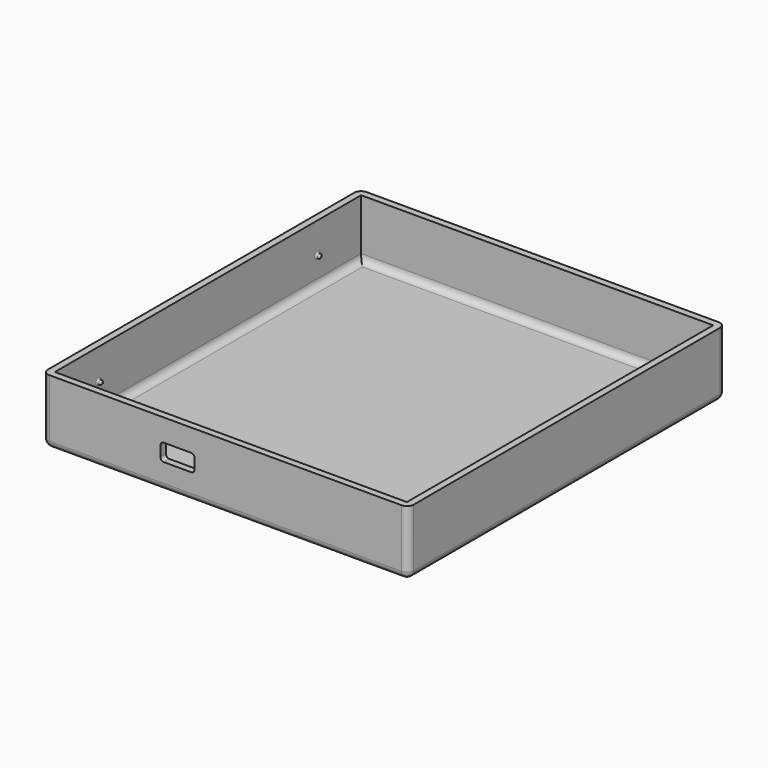
from build123d import *

# Parameters (mm, degrees)
SKETCH_W     = 107
SKETCH_H     = 116
SKETCH_W_2   = 103
SKETCH_H_2   = 112
PAD_DEPTH    = 19
SKETCH001_W  = 103
SKETCH001_H  = 112
PAD001_DEPTH = 2
FILLET_R     = 2
SKETCH002_W  = 10
SKETCH002_H  = 5
POCKET_DEPTH = 5
FILLET001_R  = 1
SKETCH003_W  = 50
SKETCH003_H  = 1
PAD002_DEPTH = 1
FILLET002_R  = 0.35
SKETCH004_R  = 0.629837
PAD003_DEPTH = 1
FILLET003_R  = 0.4
FILLET004_R  = 2
FILLET005_R  = 2


with BuildPart() as part:
    # Sketch (on XY_Plane of Origin) → Pad (new body)
    with BuildSketch(Plane.XY):
        Rectangle(SKETCH_W, SKETCH_H)
        Rectangle(SKETCH_W_2, SKETCH_H_2, mode=Mode.SUBTRACT)
    extrude(amount=PAD_DEPTH)

    # Sketch001 (on XY_Plane of Origin) → Pad001 (join)
    with BuildSketch(Plane.XY):
        Rectangle(SKETCH001_W, SKETCH001_H)
    extrude(amount=PAD001_DEPTH)

    # Fillet
    fillet_edges = [part.edges().sort_by_distance(p)[0] for p in [
        (-53.5, 58, 9.5),
        (53.5, 58, 9.5),
        (53.5, -58, 9.5),
        (-53.5, -58, 9.5),
    ]]
    fillet(fillet_edges, radius=FILLET_R)

    # Sketch002 (on Face7 of Fillet) → Pocket (cut)
    with BuildSketch(Plane.XZ.offset(58)):
        with Locations((-14, 10)):
            Rectangle(SKETCH002_W, SKETCH002_H)
    extrude(amount=-POCKET_DEPTH, mode=Mode.SUBTRACT)

    # Fillet001
    fillet001_edges = [part.edges().sort_by_distance(p)[0] for p in [
        (-9, -57, 7.5),
        (-9, -57, 12.5),
        (-19, -57, 12.5),
        (-19, -57, 7.5),
    ]]
    fillet(fillet001_edges, radius=FILLET001_R)

    # Sketch003 (on Face21 of Fillet001) → Pad002 (join)
    with BuildSketch(Plane(origin=(51.5, 0, 0), x_dir=(0, -1, 0), z_dir=(-1, 0, 0))):
        with Locations((0, 10)):
            Rectangle(SKETCH003_W, SKETCH003_H)
    extrude(amount=PAD002_DEPTH)

    # Fillet002
    fillet002_edges = [part.edges().sort_by_distance(p)[0] for p in [
        (50.5, 0, 10.5),
        (50.5, 0, 9.5),
        (50.5, 25, 10),
        (51, 25, 9.5),
        (51, 25, 10.5),
        (51, -25, 9.5),
        (50.5, -25, 10),
        (51, -25, 10.5),
        (51.5, -25, 10),
        (51.5, 0, 10.5),
        (51.5, 25, 10),
        (51.5, 0, 9.5),
    ]]
    fillet(fillet002_edges, radius=FILLET002_R)

    # Sketch004 (on Face22 of Fillet002) → Pad003 (join)
    with BuildSketch(Plane.YZ.offset(-51.5)):
        with Locations((-40, 10)):
            Circle(SKETCH004_R)
        with Locations((40, 10)):
            Circle(SKETCH004_R)
    extrude(amount=PAD003_DEPTH)

    # Fillet003
    fillet003_edges = [part.edges().sort_by_distance(p)[0] for p in [
        (-51.5, -40.629837, 10),
        (-50.5, -40.629837, 10),
        (-51.5, 39.370163, 10),
        (-50.5, 39.370163, 10),
    ]]
    fillet(fillet003_edges, radius=FILLET003_R)

    # Fillet004
    fillet004_edges = [part.edges().sort_by_distance(p)[0] for p in [
        (0, -58, 0),
        (52.914214, -57.414214, 0),
        (53.5, 0, 0),
        (-52.914214, -57.414214, 0),
        (-53.5, 0, 0),
        (-52.914214, 57.414214, 0),
        (0, 58, 0),
        (52.914214, 57.414214, 0),
    ]]
    fillet(fillet004_edges, radius=FILLET004_R)

    # Fillet005
    fillet005_edges = [part.edges().sort_by_distance(p)[0] for p in [
        (0, 56, 2),
        (-51.5, 0, 2),
        (51.5, 0, 2),
        (0, -56, 2),
    ]]
    fillet(fillet005_edges, radius=FILLET005_R)


solid = part.part
